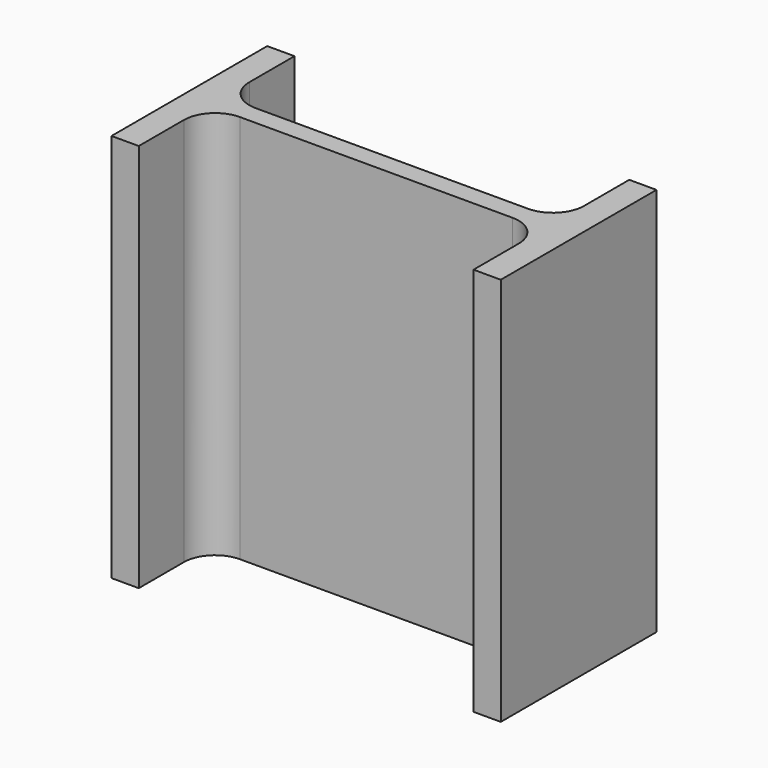
from build123d import *

# Parameters (mm, degrees)
F1_DEPTH = 100
F2_R     = 8


with BuildPart() as f1:
    # F0 (on Top) → F1 (new body)
    with BuildSketch(Plane.XY):
        Polygon((-43, 25), (-50, 25), (-50, -25), (-43, -25), (-43, -2.5), (43, -2.5), (43, -25), (50, -25), (50, 25), (43, 25), (43, 2.5), (-43, 2.5), align=None)
    extrude(amount=F1_DEPTH)

    # F2
    f2_edges = [f1.edges().sort_by_distance(p)[0] for p in [
        (43, -2.5, 50),
        (-43, -2.5, 50),
        (-43, 2.5, 50),
        (43, 2.5, 50),
    ]]
    fillet(f2_edges, radius=F2_R)


solid = f1.part
